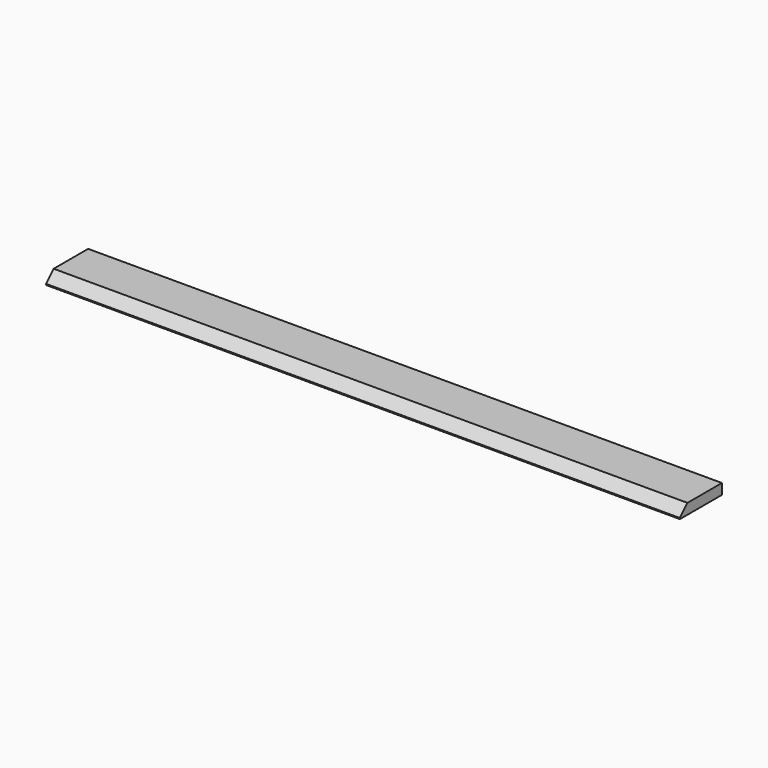
from build123d import *

# Parameters (mm, degrees)
F0_W     = 50
F0_H     = 10
F1_DEPTH = 301.5
F2_SIZE  = 9


with BuildPart() as f1:
    # F0 (on Right) → F1 (new body, symmetric)
    with BuildSketch(Plane.YZ):
        with Locations((0, 5)):
            Rectangle(F0_W, F0_H)
    extrude(amount=F1_DEPTH, both=True)

    # F2
    f2_edges = [f1.edges().sort_by_distance(p)[0] for p in [
        (0, -25, 10),
    ]]
    chamfer(f2_edges, length=F2_SIZE)


solid = f1.part
